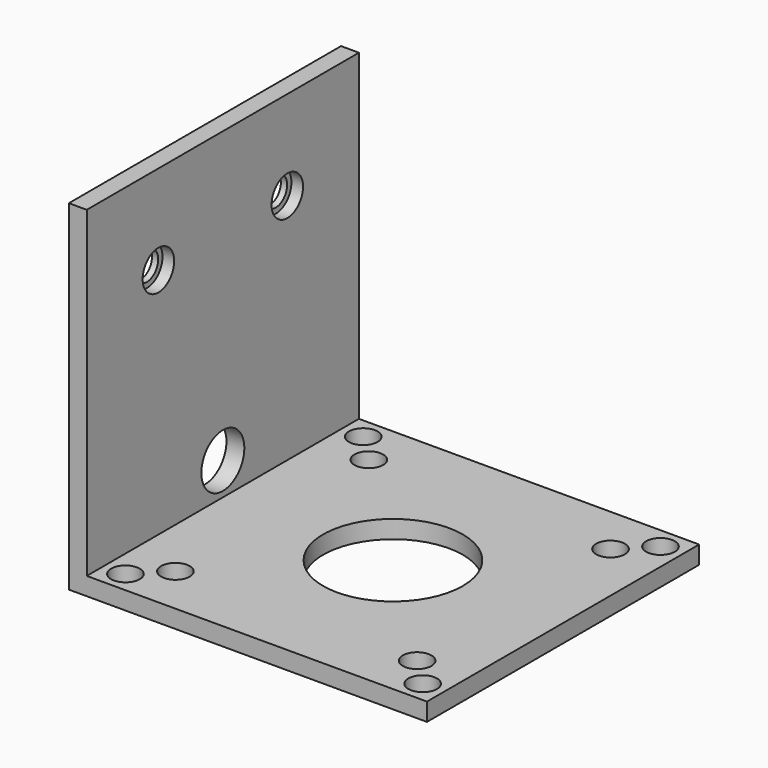
from build123d import *

# Parameters (mm, degrees)
SKETCH_W        = 40
SKETCH_H        = 38
PAD_DEPTH       = 38
SKETCH001_W     = 38
SKETCH001_H     = 38
POCKET_DEPTH    = 36
SKETCH002_R     = 1.6
POCKET001_DEPTH = 2
SKETCH004_R     = 3
POCKET002_DEPTH = 3
SKETCH005_R     = 1.6
POCKET003_DEPTH = 3
SKETCH006_R     = 2.2
POCKET004_DEPTH = 1.3
SKETCH007_R     = 7.8
POCKET005_DEPTH = 2


with BuildPart() as part:
    # Sketch → Pad (new body)
    with BuildSketch(Plane.XY):
        with Locations((-1, 0)):
            Rectangle(SKETCH_W, SKETCH_H)
    extrude(amount=PAD_DEPTH)

    # Sketch001 (on Face6 of Pad) → Pocket (cut)
    with BuildSketch(Plane.XY.offset(38)):
        Rectangle(SKETCH001_W, SKETCH001_H)
    extrude(amount=-POCKET_DEPTH, mode=Mode.SUBTRACT)

    # Sketch002 (on Face4 of Pocket) → Pocket001 (cut)
    with BuildSketch(Plane.XY.offset(2)):
        with Locations((13.500611, 13.5)):
            Circle(SKETCH002_R)
        with Locations((-13.499389, -13.5)):
            Circle(SKETCH002_R)
        with Locations((13.500611, -13.5)):
            Circle(SKETCH002_R)
        with Locations((-13.499389, 13.5)):
            Circle(SKETCH002_R)
        with Locations((-16.6, 16.6)):
            Circle(SKETCH002_R)
        with Locations((16.6, 16.6)):
            Circle(SKETCH002_R)
        with Locations((16.6, -16.6)):
            Circle(SKETCH002_R)
        with Locations((-16.6, -16.6)):
            Circle(SKETCH002_R)
    extrude(amount=-POCKET001_DEPTH, mode=Mode.SUBTRACT)

    # Sketch004 (on Face5 of Pocket001) → Pocket002 (cut)
    with BuildSketch(Plane.YZ.offset(-19)):
        with Locations((0, 5.624065)):
            Circle(SKETCH004_R)
    extrude(amount=-POCKET002_DEPTH, mode=Mode.SUBTRACT)

    # Sketch005 (on Face5 of Pocket002) → Pocket003 (cut)
    with BuildSketch(Plane.YZ.offset(-19)):
        with Locations((-9, 28)):
            Circle(SKETCH005_R)
        with Locations((9, 28)):
            Circle(SKETCH005_R)
    extrude(amount=-POCKET003_DEPTH, mode=Mode.SUBTRACT)

    # Sketch006 (on Face5 of Pocket003) → Pocket004 (cut)
    with BuildSketch(Plane.YZ.offset(-19)):
        with Locations((-9, 28)):
            Circle(SKETCH006_R)
        with Locations((9, 28)):
            Circle(SKETCH006_R)
    extrude(amount=-POCKET004_DEPTH, mode=Mode.SUBTRACT)

    # Sketch007 (on Face4 of Pocket004) → Pocket005 (cut)
    with BuildSketch(Plane.XY.offset(2)):
        Circle(SKETCH007_R)
    extrude(amount=-POCKET005_DEPTH, mode=Mode.SUBTRACT)


solid = part.part
